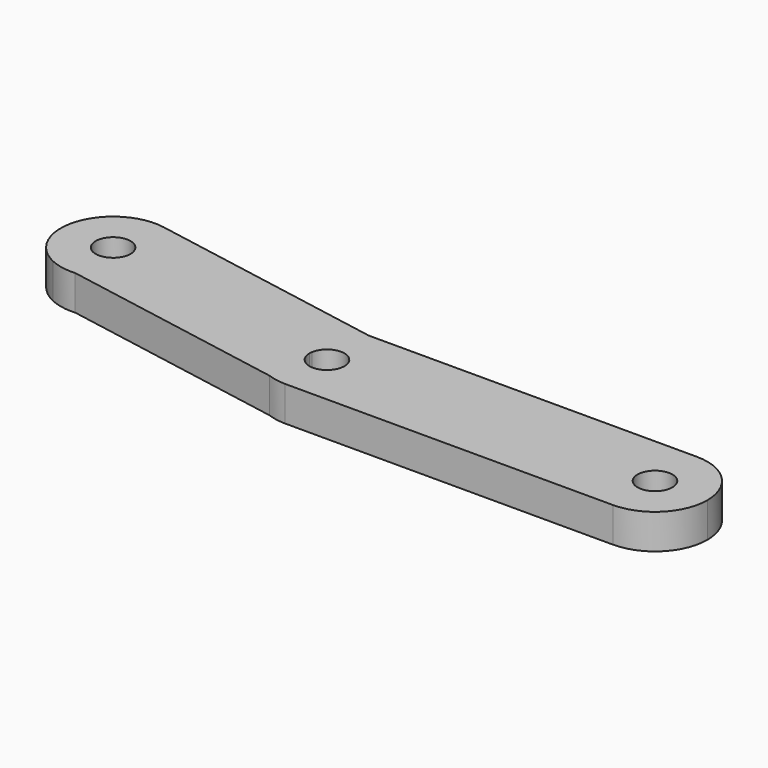
from build123d import *

# Parameters (mm, degrees)
F1_DEPTH = 6.35


with BuildPart() as f1:
    # F0 (on Top) → F1 (new body)
    with BuildSketch(Plane.XY):
        with BuildLine():
            ThreePointArc((-3.1267646158, 0.5513329641), (0.2767194832, 3.1629181664), (3.175, 0))
            Line((3.175, 0), (9.525, 0))
            ThreePointArc((9.525, 0), (6.7351920908, 6.7351920908), (0, 9.525))
            ThreePointArc((0, 9.525), (-6.1225519823, 7.2965733207), (-9.3802938474, 1.6539988923))
            Line((-9.3802938474, 1.6539988923), (-3.1267646158, 0.5513329641))
        make_face()
        with BuildLine():
            Line((9.525, 0), (3.175, 0))
            ThreePointArc((3.175, 0), (0, -3.175), (-3.175, 0))
            Line((-3.175, 0), (-9.525, 0))
            ThreePointArc((-9.525, 0), (-7.8202053152, -5.4378317212), (-3.316073212, -8.9291255704))
            Line((-3.316073212, -8.9291255704), (0, -9.525))
            ThreePointArc((0, -9.525), (6.7351920908, -6.7351920908), (9.525, 0))
        make_face()
        with BuildLine():
            ThreePointArc((0, 9.525), (6.7351920908, 6.7351920908), (9.525, 0))
            Line((9.525, 0), (50.1904, 0))
            ThreePointArc((50.1904, 0), (52.9802079092, 6.7351920908), (59.7154, 9.525))
            Line((59.7154, 9.525), (0, 9.525))
        make_face()
        with BuildLine():
            Line((50.1904, 0), (9.525, 0))
            ThreePointArc((9.525, 0), (6.7351920908, -6.7351920908), (0, -9.525))
            Line((0, -9.525), (59.7154, -9.525))
            ThreePointArc((59.7154, -9.525), (52.9802079092, -6.7351920908), (50.1904, 0))
        make_face()
        with BuildLine():
            ThreePointArc((-3.316073212, -8.9291255704), (-7.8202053152, -5.4378317212), (-9.525, 0))
            Line((-9.525, 0), (-40.1437268637, 0))
            ThreePointArc((-40.1437268637, 0), (-42.2877419599, -1.0354554234), (-44.6215756209, -1.5068248214))
            Line((-44.6215756209, -1.5068248214), (-3.316073212, -8.9291255704))
        make_face()
        with BuildLine():
            Line((-35.9452860234, 6.3381237552), (-9.3802938474, 1.6539988923))
            ThreePointArc((-9.3802938474, 1.6539988923), (-6.1225519823, 7.2965733207), (0, 9.525))
            Line((0, 9.525), (-43.6409873472, 17.3669705411))
            ThreePointArc((-43.6409873472, 17.3669705411), (-38.0190290845, 14.1027642346), (-35.8005798708, 7.9921226475))
            ThreePointArc((-35.8005798708, 7.9921226475), (-35.8368253715, 7.1619641978), (-35.9452860234, 6.3381237552))
        make_face()
        with BuildLine():
            ThreePointArc((59.7154, 9.525), (52.9802079092, 6.7351920908), (50.1904, 0))
            ThreePointArc((50.1904, 0), (52.9802079092, -6.7351920908), (59.7154, -9.525))
            ThreePointArc((59.7154, -9.525), (66.4505920908, -6.7351920908), (69.2404, 0))
            ThreePointArc((69.2404, 0), (66.4505920908, 6.7351920908), (59.7154, 9.525))
        make_face()
        with BuildLine():
            ThreePointArc((62.8904, 0), (59.7154, -3.175), (56.5404, 0))
            ThreePointArc((56.5404, 0), (59.7154, 3.175), (62.8904, 0))
        make_face(mode=Mode.SUBTRACT)
        with BuildLine():
            ThreePointArc((-3.316073212, -8.9291255704), (-1.6845925237, -9.3748478937), (0, -9.525))
            Line((0, -9.525), (-3.316073212, -8.9291255704))
        make_face()
        with BuildLine():
            ThreePointArc((-44.6215756209, -1.5068248214), (-42.2877419599, -1.0354554234), (-40.1437268637, 0))
            ThreePointArc((-40.1437268637, 0), (-37.3847371298, 2.7320236406), (-35.9452860234, 6.3381237552))
            ThreePointArc((-35.9452860234, 6.3381237552), (-35.8368253715, 7.1619641978), (-35.8005798708, 7.9921226475))
            ThreePointArc((-35.8005798708, 7.9921226475), (-38.0190290845, 14.1027642346), (-43.6409873472, 17.3669705411))
            ThreePointArc((-43.6409873472, 17.3669705411), (-54.414733052, 10.8404413532), (-49.2925454975, -0.6674852372))
            Line((-49.2925454975, -0.6674852372), (-44.6215756209, -1.5068248214))
        make_face()
        with BuildLine():
            ThreePointArc((-42.1505798708, 7.9921226475), (-42.1626617044, 7.7154031643), (-42.198815255, 7.4407896834))
            ThreePointArc((-42.198815255, 7.4407896834), (-48.4884980373, 8.2688421307), (-42.1505798708, 7.9921226475))
        make_face(mode=Mode.SUBTRACT)
        with BuildLine():
            ThreePointArc((-49.2925454975, -0.6674852372), (-47.0101723945, -1.3827252462), (-44.6215756209, -1.5068248214))
            Line((-44.6215756209, -1.5068248214), (-49.2925454975, -0.6674852372))
        make_face()
        with BuildLine():
            Line((-40.1437268637, 0), (-9.525, 0))
            ThreePointArc((-9.525, 0), (-9.4887544993, 0.8301584497), (-9.3802938474, 1.6539988923))
            Line((-9.3802938474, 1.6539988923), (-35.9452860234, 6.3381237552))
            ThreePointArc((-35.9452860234, 6.3381237552), (-37.3847371298, 2.7320236406), (-40.1437268637, 0))
        make_face()
        with BuildLine():
            Line((-9.525, 0), (-3.175, 0))
            ThreePointArc((-3.175, 0), (-3.1629181664, 0.2767194832), (-3.1267646158, 0.5513329641))
            Line((-3.1267646158, 0.5513329641), (-9.3802938474, 1.6539988923))
            ThreePointArc((-9.3802938474, 1.6539988923), (-9.4887544993, 0.8301584497), (-9.525, 0))
        make_face()
    extrude(amount=F1_DEPTH)


solid = f1.part
